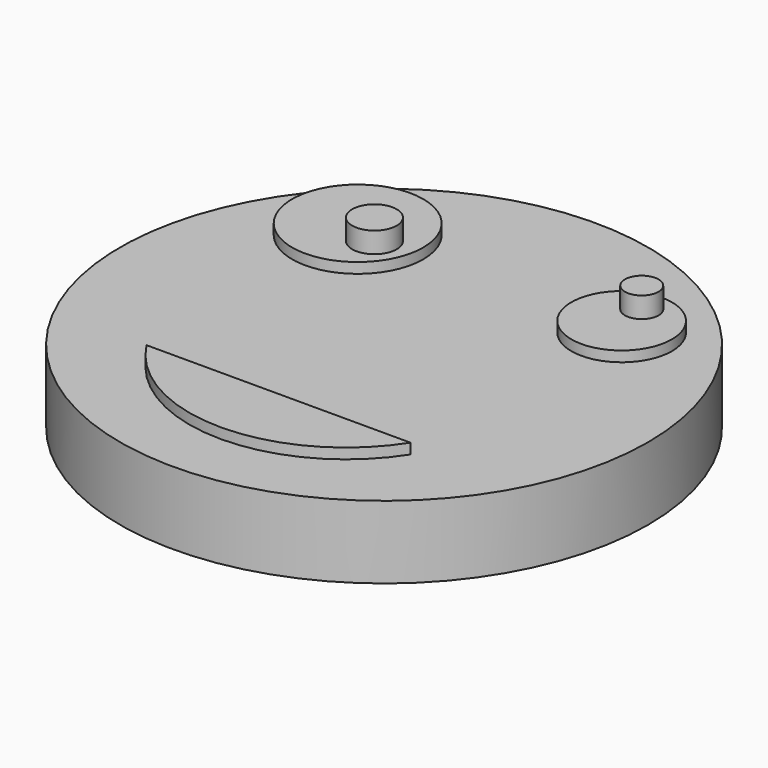
from build123d import *

# Parameters (mm, degrees)
F0_R     = 1.070712
F0_R_2   = 0.809145
F1_DEPTH = 5
F0_R_3   = 3.155534
F0_R_4   = 2.41914
F2_DEPTH = 4
F0_R_5   = 12.7
F3_DEPTH = 3.5


with BuildPart() as f1:
    # F0 (on Top) → F1 (new body)
    with BuildSketch(Plane.XY):
        with Locations((-4.954685, 5.613492)):
            Circle(F0_R)
        with Locations((6.35, 7.55957)):
            Circle(F0_R_2)
    extrude(amount=F1_DEPTH)


with BuildPart() as f2:
    # F0 (on Top) → F2 (new body)
    with BuildSketch(Plane.XY):
        with Locations((-6.35, 6.35)):
            Circle(F0_R_3)
        with Locations((-4.954685, 5.613492)):
            Circle(F0_R, mode=Mode.SUBTRACT)
        with Locations((6.35, 6.35)):
            Circle(F0_R_4)
        with Locations((6.35, 7.55957)):
            Circle(F0_R_2, mode=Mode.SUBTRACT)
        with BuildLine():
            Line((6.35, -6.35), (-6.35, -6.35))
            ThreePointArc((-6.35, -6.35), (0, -9.826816), (6.35, -6.35))
        make_face()
    extrude(amount=F2_DEPTH)


with BuildPart() as f3:
    # F0 (on Top) → F3 (new body)
    with BuildSketch(Plane.XY):
        Circle(F0_R_5)
        with BuildLine():
            ThreePointArc((6.35, -6.35), (0, -9.826816), (-6.35, -6.35))
            Line((-6.35, -6.35), (6.35, -6.35))
        make_face(mode=Mode.SUBTRACT)
        with Locations((-6.35, 6.35)):
            Circle(F0_R_3, mode=Mode.SUBTRACT)
        with Locations((6.35, 6.35)):
            Circle(F0_R_4, mode=Mode.SUBTRACT)
    extrude(amount=F3_DEPTH)


solid = Compound([f1.part, f2.part, f3.part])
